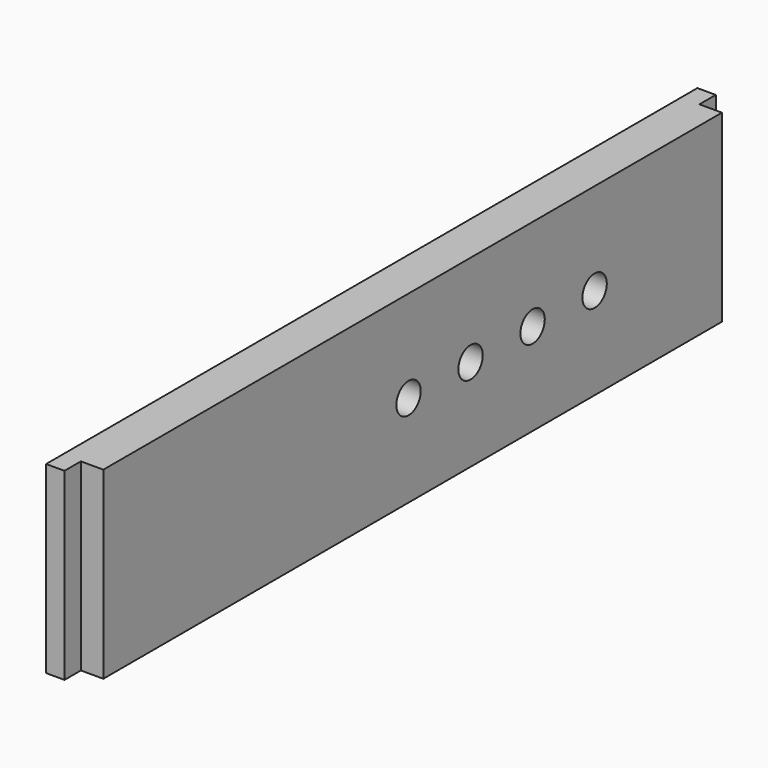
from build123d import *

# Parameters (mm, degrees)
CYLINDER010_R     = 1.49
CYLINDER010_DEPTH = 10
ARRAY016_Y_COUNT  = 4
ARRAY016_Y_PITCH  = 7.58
BOX051_W          = 10
BOX051_H          = 10
BOX051_DEPTH      = 31
BOX050_W          = 10
BOX050_H          = 10
BOX050_DEPTH      = 30
BOX049_W          = 10
BOX049_H          = 10
BOX049_DEPTH      = 25
BOX048_W          = 10
BOX048_H          = 10
BOX048_DEPTH      = 25
BOX046_W          = 2
BOX046_H          = 80
BOX046_DEPTH      = 18
BOX047_W          = 4
BOX047_H          = 76
BOX047_DEPTH      = 18


with BuildPart() as array016:
    # Cylinder010 → Cylinder010 (new body)
    with BuildSketch(Plane(origin=(143, 6, 13), x_dir=(0, 0, -1), z_dir=(1, 0, 0))):
        Circle(CYLINDER010_R)
    extrude(amount=CYLINDER010_DEPTH)

    # Array016 Y: Array016 ×4


with BuildPart() as array016_1:
    add(array016.part)
    with Locations(*[(0, i * ARRAY016_Y_PITCH, 0) for i in range(1, ARRAY016_Y_COUNT)]):
        add(array016.part)


with BuildPart() as array016_2:
    # Array016 placement: moved
    add(array016_1.part.moved(Location((-33, 34.5, 0))))


with BuildPart() as obj1:
    # Box051 → Box051 (new body)
    with BuildSketch(Plane(origin=(110, 80.8, 0), x_dir=(1, 0, 0), z_dir=(0, 0, 1))):
        with Locations((5, 5)):
            Rectangle(BOX051_W, BOX051_H)
    extrude(amount=BOX051_DEPTH)


with BuildPart() as obj2:
    # Box050 → Box050 (new body)
    with BuildSketch(Plane(origin=(109, -8.8, 0), x_dir=(1, 0, 0), z_dir=(0, 0, 1))):
        with Locations((5, 5)):
            Rectangle(BOX050_W, BOX050_H)
    extrude(amount=BOX050_DEPTH)


with BuildPart() as obj3:
    # Box049 → Box049 (new body)
    with BuildSketch(Plane(origin=(114.8, 78.8, 0), x_dir=(1, 0, 0), z_dir=(0, 0, 1))):
        with Locations((5, 5)):
            Rectangle(BOX049_W, BOX049_H)
    extrude(amount=BOX049_DEPTH)


with BuildPart() as obj4:
    # Box048 → Box048 (new body)
    with BuildSketch(Plane(origin=(114.8, -6.8, 0), x_dir=(1, 0, 0), z_dir=(0, 0, 1))):
        with Locations((5, 5)):
            Rectangle(BOX048_W, BOX048_H)
    extrude(amount=BOX048_DEPTH)


with BuildPart() as obj5:
    # Box046 → Box046 (new body)
    with BuildSketch(Plane(origin=(113, 1, 23), x_dir=(1, 0, 0), z_dir=(0, 0, 1))):
        with Locations((1, 40)):
            Rectangle(BOX046_W, BOX046_H)
    extrude(amount=BOX046_DEPTH)


with BuildPart() as cut052:
    # Box047 → Box047 (new body)
    with BuildSketch(Plane(origin=(113, 3, 23), x_dir=(1, 0, 0), z_dir=(0, 0, 1))):
        with Locations((2, 38)):
            Rectangle(BOX047_W, BOX047_H)
    extrude(amount=BOX047_DEPTH)

    # Fusion008031: union obj5
    add(obj5.part)


with BuildPart() as cut052_1:
    # Fusion008031 placement: moved
    add(cut052.part.moved(Location((0, 0, -19))))

    # Cut047: cut obj4
    add(obj4.part, mode=Mode.SUBTRACT)

    # Cut048: cut obj3
    add(obj3.part, mode=Mode.SUBTRACT)

    # Cut049: cut obj2
    add(obj2.part, mode=Mode.SUBTRACT)

    # Cut050: cut obj1
    add(obj1.part, mode=Mode.SUBTRACT)

    # Cut052: cut Array016
    add(array016_2.part, mode=Mode.SUBTRACT)


solid = cut052_1.part
